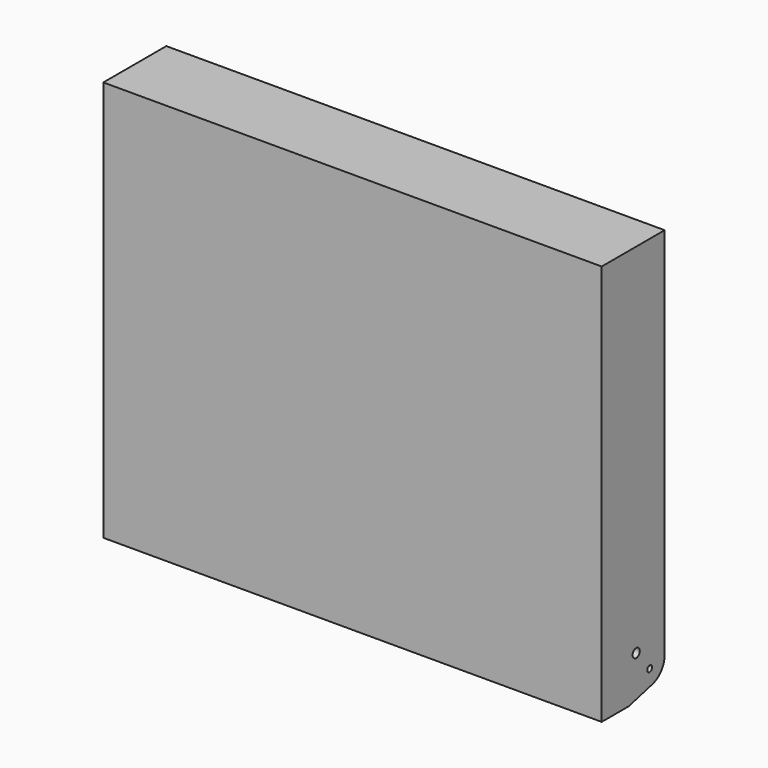
from build123d import *

# Parameters (mm, degrees)
F0_W     = 665
F0_H     = 535
F1_DEPTH = 105
F2_W     = 635
F2_H     = 505
F3_DEPTH = 90
F5_D     = 12
F6_W     = 635
F6_H     = 15
F7_DEPTH = 60
F8_SIZE2 = 15
F8_SIZE  = 60
F9_R     = 27
F11_D    = 8


with BuildPart() as f1:
    # F0 (on Front) → F1 (new body)
    with BuildSketch(Plane.XZ):
        with Locations((332.5, 267.5)):
            Rectangle(F0_W, F0_H)
    extrude(amount=-F1_DEPTH)

    # F2 (on face) → F3 (cut, through all)
    with BuildSketch(Plane(origin=(0, 105, 0), x_dir=(-1, 0, 0), z_dir=(0, 1, 0))):
        with Locations((-332.5, 267.5)):
            Rectangle(F2_W, F2_H)
    extrude(amount=-F3_DEPTH, mode=Mode.SUBTRACT)

    # F5 (through all)
    with Locations(Plane.YZ.offset(665)):
        with Locations((57.5, 57.5)):
            Hole(F5_D / 2)

    # F6 (on face) → F7 (cut)
    with BuildSketch(Plane(origin=(0, 105, 0), x_dir=(-1, 0, 0), z_dir=(0, 1, 0))):
        with Locations((-332.5, 7.5)):
            Rectangle(F6_W, F6_H)
    extrude(amount=-F7_DEPTH, mode=Mode.SUBTRACT)

    # F8
    f8_edges = [f1.edges().sort_by_distance(p)[0] for p in [
        (657.5, 105, 0),
        (7.5, 105, 0),
    ]]
    f8_side = f1.faces().sort_by_distance((332.5, 25.478723, 0))[0]
    chamfer(f8_edges, length=F8_SIZE, length2=F8_SIZE2, reference=f8_side)

    # F9
    f9_edges = [f1.edges().sort_by_distance(p)[0] for p in [
        (657.5, 105, 15),
        (7.5, 105, 15),
    ]]
    fillet(f9_edges, radius=F9_R)

    # F11 (through all)
    with Locations(Plane(origin=(0, 0, 0), x_dir=(0, -1, 0), z_dir=(-1, 0, 0))):
        with Locations((-80, 30)):
            Hole(F11_D / 2)


solid = f1.part
